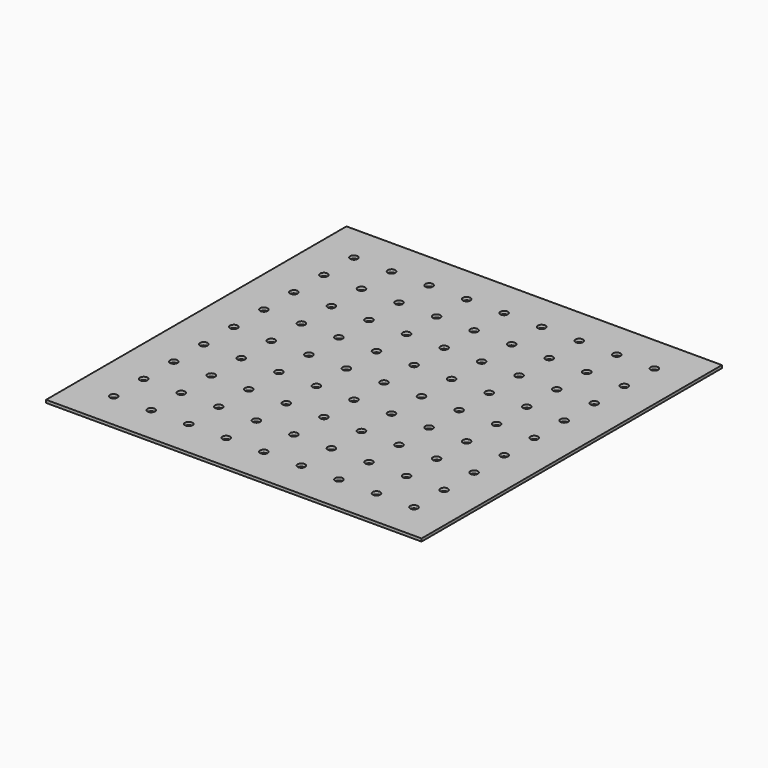
from build123d import *

# Parameters (mm, degrees)
F0_W     = 200
F0_H     = 200
F0_R     = 2
F1_DEPTH = 1.5


with BuildPart() as f1:
    # F0 (on Top) → F1 (new body)
    with BuildSketch(Plane.XY):
        Rectangle(F0_W, F0_H)
        with Locations((-80, -80)):
            Circle(F0_R, mode=Mode.SUBTRACT)
        with Locations((-60, -80)):
            Circle(F0_R, mode=Mode.SUBTRACT)
        with Locations((-80, -60)):
            Circle(F0_R, mode=Mode.SUBTRACT)
        with Locations((-60, -60)):
            Circle(F0_R, mode=Mode.SUBTRACT)
        with Locations((-40, -80)):
            Circle(F0_R, mode=Mode.SUBTRACT)
        with Locations((-20, -80)):
            Circle(F0_R, mode=Mode.SUBTRACT)
        with Locations((-40, -60)):
            Circle(F0_R, mode=Mode.SUBTRACT)
        with Locations((-20, -60)):
            Circle(F0_R, mode=Mode.SUBTRACT)
        with Locations((-80, -40)):
            Circle(F0_R, mode=Mode.SUBTRACT)
        with Locations((-60, -40)):
            Circle(F0_R, mode=Mode.SUBTRACT)
        with Locations((-80, -20)):
            Circle(F0_R, mode=Mode.SUBTRACT)
        with Locations((-60, -20)):
            Circle(F0_R, mode=Mode.SUBTRACT)
        with Locations((-40, -40)):
            Circle(F0_R, mode=Mode.SUBTRACT)
        with Locations((-20, -40)):
            Circle(F0_R, mode=Mode.SUBTRACT)
        with Locations((-40, -20)):
            Circle(F0_R, mode=Mode.SUBTRACT)
        with Locations((-20, -20)):
            Circle(F0_R, mode=Mode.SUBTRACT)
        with Locations((0, -80)):
            Circle(F0_R, mode=Mode.SUBTRACT)
        with Locations((20, -80)):
            Circle(F0_R, mode=Mode.SUBTRACT)
        with Locations((40, -80)):
            Circle(F0_R, mode=Mode.SUBTRACT)
        with Locations((0, -60)):
            Circle(F0_R, mode=Mode.SUBTRACT)
        with Locations((20, -60)):
            Circle(F0_R, mode=Mode.SUBTRACT)
        with Locations((40, -60)):
            Circle(F0_R, mode=Mode.SUBTRACT)
        with Locations((60, -80)):
            Circle(F0_R, mode=Mode.SUBTRACT)
        with Locations((80, -80)):
            Circle(F0_R, mode=Mode.SUBTRACT)
        with Locations((60, -60)):
            Circle(F0_R, mode=Mode.SUBTRACT)
        with Locations((80, -60)):
            Circle(F0_R, mode=Mode.SUBTRACT)
        with Locations((0, -40)):
            Circle(F0_R, mode=Mode.SUBTRACT)
        with Locations((20, -40)):
            Circle(F0_R, mode=Mode.SUBTRACT)
        with Locations((40, -40)):
            Circle(F0_R, mode=Mode.SUBTRACT)
        with Locations((0, -20)):
            Circle(F0_R, mode=Mode.SUBTRACT)
        with Locations((20, -20)):
            Circle(F0_R, mode=Mode.SUBTRACT)
        with Locations((40, -20)):
            Circle(F0_R, mode=Mode.SUBTRACT)
        with Locations((60, -40)):
            Circle(F0_R, mode=Mode.SUBTRACT)
        with Locations((80, -40)):
            Circle(F0_R, mode=Mode.SUBTRACT)
        with Locations((60, -20)):
            Circle(F0_R, mode=Mode.SUBTRACT)
        with Locations((80, -20)):
            Circle(F0_R, mode=Mode.SUBTRACT)
        with Locations((-80, 0)):
            Circle(F0_R, mode=Mode.SUBTRACT)
        with Locations((-80, 20)):
            Circle(F0_R, mode=Mode.SUBTRACT)
        with Locations((-60, 0)):
            Circle(F0_R, mode=Mode.SUBTRACT)
        with Locations((-60, 20)):
            Circle(F0_R, mode=Mode.SUBTRACT)
        with Locations((-80, 40)):
            Circle(F0_R, mode=Mode.SUBTRACT)
        with Locations((-60, 40)):
            Circle(F0_R, mode=Mode.SUBTRACT)
        with Locations((-40, 0)):
            Circle(F0_R, mode=Mode.SUBTRACT)
        with Locations((-40, 20)):
            Circle(F0_R, mode=Mode.SUBTRACT)
        with Locations((-20, 0)):
            Circle(F0_R, mode=Mode.SUBTRACT)
        with Locations((-20, 20)):
            Circle(F0_R, mode=Mode.SUBTRACT)
        with Locations((-40, 40)):
            Circle(F0_R, mode=Mode.SUBTRACT)
        with Locations((-20, 40)):
            Circle(F0_R, mode=Mode.SUBTRACT)
        with Locations((-80, 60)):
            Circle(F0_R, mode=Mode.SUBTRACT)
        with Locations((-60, 60)):
            Circle(F0_R, mode=Mode.SUBTRACT)
        with Locations((-80, 80)):
            Circle(F0_R, mode=Mode.SUBTRACT)
        with Locations((-60, 80)):
            Circle(F0_R, mode=Mode.SUBTRACT)
        with Locations((-40, 60)):
            Circle(F0_R, mode=Mode.SUBTRACT)
        with Locations((-20, 60)):
            Circle(F0_R, mode=Mode.SUBTRACT)
        with Locations((-40, 80)):
            Circle(F0_R, mode=Mode.SUBTRACT)
        with Locations((-20, 80)):
            Circle(F0_R, mode=Mode.SUBTRACT)
        Circle(F0_R, mode=Mode.SUBTRACT)
        with Locations((20, 0)):
            Circle(F0_R, mode=Mode.SUBTRACT)
        with Locations((0, 20)):
            Circle(F0_R, mode=Mode.SUBTRACT)
        with Locations((20, 20)):
            Circle(F0_R, mode=Mode.SUBTRACT)
        with Locations((40, 0)):
            Circle(F0_R, mode=Mode.SUBTRACT)
        with Locations((40, 20)):
            Circle(F0_R, mode=Mode.SUBTRACT)
        with Locations((0, 40)):
            Circle(F0_R, mode=Mode.SUBTRACT)
        with Locations((20, 40)):
            Circle(F0_R, mode=Mode.SUBTRACT)
        with Locations((40, 40)):
            Circle(F0_R, mode=Mode.SUBTRACT)
        with Locations((60, 0)):
            Circle(F0_R, mode=Mode.SUBTRACT)
        with Locations((60, 20)):
            Circle(F0_R, mode=Mode.SUBTRACT)
        with Locations((80, 0)):
            Circle(F0_R, mode=Mode.SUBTRACT)
        with Locations((80, 20)):
            Circle(F0_R, mode=Mode.SUBTRACT)
        with Locations((60, 40)):
            Circle(F0_R, mode=Mode.SUBTRACT)
        with Locations((80, 40)):
            Circle(F0_R, mode=Mode.SUBTRACT)
        with Locations((0, 60)):
            Circle(F0_R, mode=Mode.SUBTRACT)
        with Locations((20, 60)):
            Circle(F0_R, mode=Mode.SUBTRACT)
        with Locations((40, 60)):
            Circle(F0_R, mode=Mode.SUBTRACT)
        with Locations((0, 80)):
            Circle(F0_R, mode=Mode.SUBTRACT)
        with Locations((20, 80)):
            Circle(F0_R, mode=Mode.SUBTRACT)
        with Locations((40, 80)):
            Circle(F0_R, mode=Mode.SUBTRACT)
        with Locations((60, 60)):
            Circle(F0_R, mode=Mode.SUBTRACT)
        with Locations((80, 60)):
            Circle(F0_R, mode=Mode.SUBTRACT)
        with Locations((60, 80)):
            Circle(F0_R, mode=Mode.SUBTRACT)
        with Locations((80, 80)):
            Circle(F0_R, mode=Mode.SUBTRACT)
    extrude(amount=F1_DEPTH)


solid = f1.part
